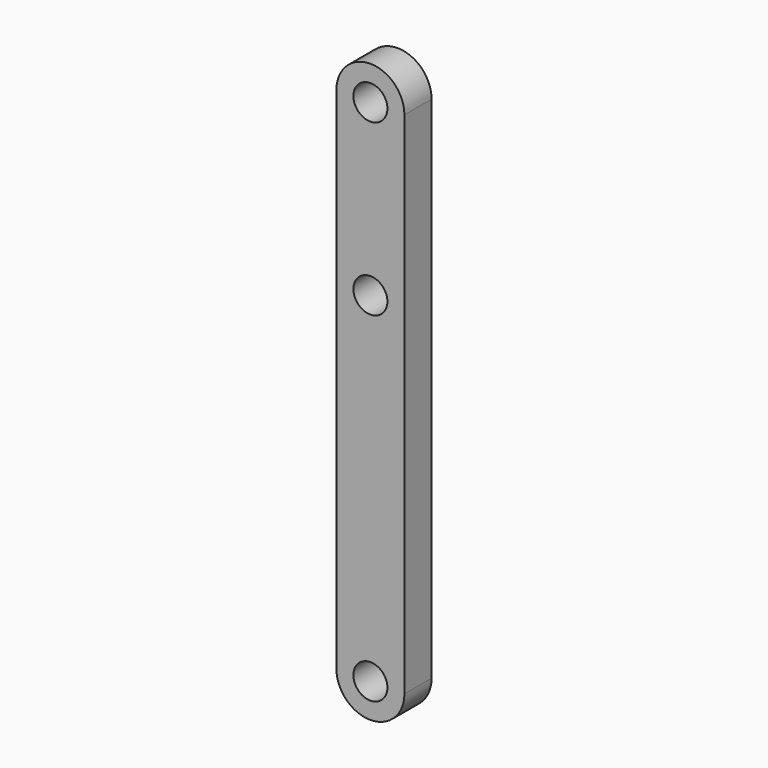
from build123d import *

# Parameters (mm, degrees)
F0_R     = 2.5
F1_DEPTH = 5


with BuildPart() as f1:
    # F0 (on Front) → F1 (new body)
    with BuildSketch(Plane.XZ):
        with BuildLine():
            Line((-5, 75), (-5, 0))
            ThreePointArc((-5, 0), (0, -5), (5, 0))
            Line((5, 0), (5, 75))
            ThreePointArc((5, 75), (0, 80), (-5, 75))
        make_face()
        Circle(F0_R, mode=Mode.SUBTRACT)
        with Locations((0, 50)):
            Circle(F0_R, mode=Mode.SUBTRACT)
        with Locations((0, 75)):
            Circle(F0_R, mode=Mode.SUBTRACT)
    extrude(amount=F1_DEPTH)


solid = f1.part
